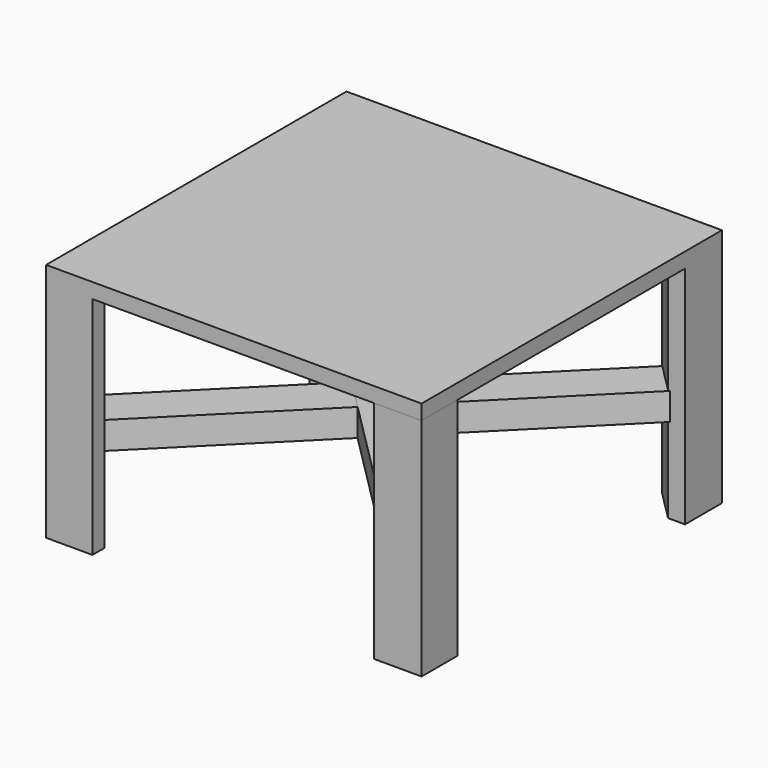
from build123d import *

# Parameters (mm, degrees)
F0_W      = 63.500004
F0_H      = 63.499999
F1_DEPTH  = 2.54
F2_W      = 7.835153
F2_H      = 7.659043
F3_DEPTH  = 38.1
F4_W      = 8.289901
F4_H      = 7.780809
F5_DEPTH  = 38.1
F6_W      = 7.952454
F6_H      = 7.793183
F7_DEPTH  = 38.1
F8_W      = 8.082605
F8_H      = 7.62517
F9_DEPTH  = 38.1
F10_SIZE  = 5.08
F11_SIZE  = 5.08
F12_SIZE  = 5.08
F13_SIZE  = 5.08
F14_W     = 7.184205
F14_H     = 4.679749
F15_DEPTH = 75.946
F16_W     = 7.184205
F16_H     = 4.617863
F17_DEPTH = 78.232


with BuildPart() as f1:
    # F0 (on Top) → F1 (new body)
    with BuildSketch(Plane.XY):
        with Locations((3.117274, -4.387272)):
            Rectangle(F0_W, F0_H)
    extrude(amount=F1_DEPTH)

    # F2 (on face) → F3 (join)
    with BuildSketch(Plane(origin=(0, 0, 0), x_dir=(1, 0, 0), z_dir=(0, 0, -1))):
        with Locations((-24.715151, 32.30775)):
            Rectangle(F2_W, F2_H)
    extrude(amount=F3_DEPTH)

    # F4 (on face) → F5 (join)
    with BuildSketch(Plane(origin=(0, 0, 0), x_dir=(1, 0, 0), z_dir=(0, 0, -1))):
        with Locations((-24.487777, -23.472322)):
            Rectangle(F4_W, F4_H)
    extrude(amount=F5_DEPTH)

    # F6 (on face) → F7 (join)
    with BuildSketch(Plane(origin=(0, 0, 0), x_dir=(1, 0, 0), z_dir=(0, 0, -1))):
        with Locations((30.891049, -23.466136)):
            Rectangle(F6_W, F6_H)
    extrude(amount=F7_DEPTH)

    # F8 (on face) → F9 (join)
    with BuildSketch(Plane(origin=(0, 0, 0), x_dir=(1, 0, 0), z_dir=(0, 0, -1))):
        with Locations((30.825973, 32.324687)):
            Rectangle(F8_W, F8_H)
    extrude(amount=F9_DEPTH)

    # F10
    f10_edges = [f1.edges().sort_by_distance(p)[0] for p in [
        (-20.797575, -28.478229, -19.05),
    ]]
    chamfer(f10_edges, length=F10_SIZE)

    # F11
    f11_edges = [f1.edges().sort_by_distance(p)[0] for p in [
        (26.914822, 19.569544, -19.05),
    ]]
    chamfer(f11_edges, length=F11_SIZE)

    # F12
    f12_edges = [f1.edges().sort_by_distance(p)[0] for p in [
        (-20.342827, 19.581918, -19.05),
    ]]
    chamfer(f12_edges, length=F12_SIZE)

    # F13
    f13_edges = [f1.edges().sort_by_distance(p)[0] for p in [
        (26.784671, -28.512102, -19.05),
    ]]
    chamfer(f13_edges, length=F13_SIZE)

    # F14 (on face) → F15 (join)
    with BuildSketch(Plane(origin=(30.188387, -30.188387, 0), x_dir=(-0.707107, -0.707107, 0), z_dir=(-0.707107, 0.707107, 0))):
        with Locations((1.221477, -21.389874)):
            Rectangle(F14_W, F14_H)
    extrude(amount=F15_DEPTH)

    # F16 (on face) → F17 (join)
    with BuildSketch(Plane(origin=(-27.177902, -27.177902, 0), x_dir=(-0.707107, 0.707107, 0), z_dir=(0.707107, 0.707107, 0))):
        with Locations((-5.431043, -21.358932)):
            Rectangle(F16_W, F16_H)
    extrude(amount=F17_DEPTH)


solid = f1.part
